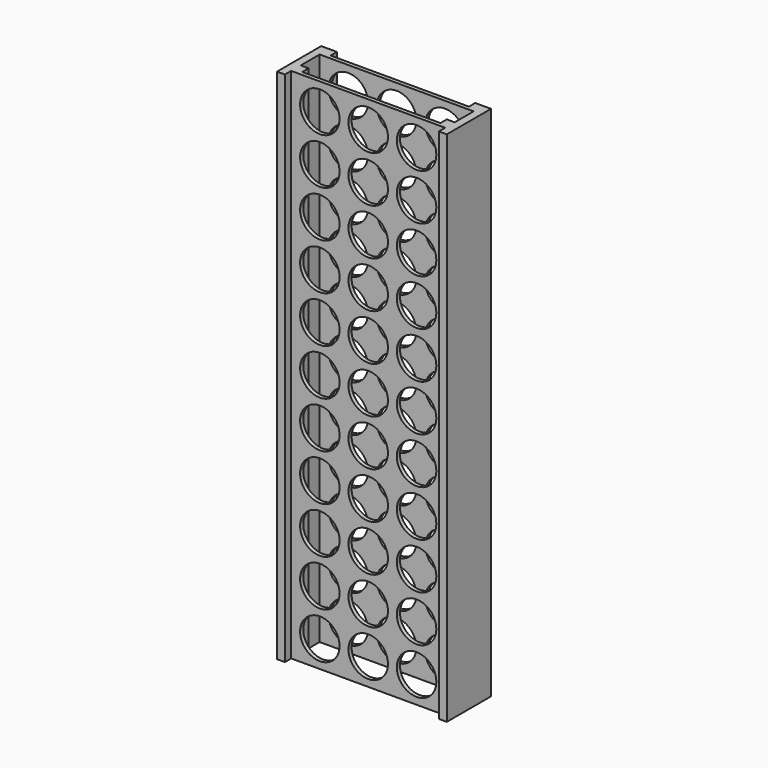
from build123d import *

# Parameters (mm, degrees)
F0_W     = 12.7
F0_H     = 12.7
F1_DEPTH = 831.85
F2_R     = 31.75
F3_DEPTH = 76.201


with BuildPart() as f1:
    # F0 (on Top) → F1 (new body)
    with BuildSketch(Plane.XY):
        Polygon((-123.825, 44.45), (-136.525, 44.45), (-136.525, -44.45), (-123.825, -44.45), (-123.825, -31.75), (-123.825, -25.4), (-123.825, -12.7), (-123.825, 25.4), (-123.825, 31.75), align=None)
        with Locations((-117.475, 38.1)):
            Rectangle(F0_W, F0_H)
        Polygon((-111.125, 31.75), (-123.825, 31.75), (-123.825, 25.4), (123.825, 25.4), (123.825, 31.75), (111.125, 31.75), align=None)
        with Locations((117.475, 38.1)):
            Rectangle(F0_W, F0_H)
        Polygon((123.825, 31.75), (123.825, 25.4), (123.825, -12.7), (123.825, -25.4), (123.825, -31.75), (123.825, -44.45), (136.525, -44.45), (136.525, 44.45), (123.825, 44.45), align=None)
        with Locations((117.475, -19.05)):
            Rectangle(F0_W, F0_H)
        with Locations((-117.475, -19.05)):
            Rectangle(F0_W, F0_H)
        Polygon((-123.825, -25.4), (-123.825, -31.75), (123.825, -31.75), (123.825, -25.4), (111.125, -25.4), (-111.125, -25.4), align=None)
    extrude(amount=F1_DEPTH)

    # F2 (on face) → F3 (cut, through all)
    with BuildSketch(Plane.XZ.offset(31.75)):
        with Locations((-77.7875, 788.9875)):
            Circle(F2_R)
        with Locations((0, 788.9875)):
            Circle(F2_R)
        with Locations((77.7875, 788.9875)):
            Circle(F2_R)
        with Locations((77.7875, 714.375)):
            Circle(F2_R)
        with Locations((0, 714.375)):
            Circle(F2_R)
        with Locations((-77.7875, 714.375)):
            Circle(F2_R)
        with Locations((-77.7875, 639.7625)):
            Circle(F2_R)
        with Locations((0, 639.7625)):
            Circle(F2_R)
        with Locations((77.7875, 639.7625)):
            Circle(F2_R)
        with Locations((77.7875, 565.15)):
            Circle(F2_R)
        with Locations((0, 565.15)):
            Circle(F2_R)
        with Locations((-77.7875, 565.15)):
            Circle(F2_R)
        with Locations((-77.7875, 490.5375)):
            Circle(F2_R)
        with Locations((0, 490.5375)):
            Circle(F2_R)
        with Locations((77.7875, 490.5375)):
            Circle(F2_R)
        with Locations((77.7875, 415.925)):
            Circle(F2_R)
        with Locations((0, 415.925)):
            Circle(F2_R)
        with Locations((-77.7875, 415.925)):
            Circle(F2_R)
        with Locations((0, 341.3125)):
            Circle(F2_R)
        with Locations((77.7875, 341.3125)):
            Circle(F2_R)
        with Locations((77.7875, 266.7)):
            Circle(F2_R)
        with Locations((0, 266.7)):
            Circle(F2_R)
        with Locations((-77.7875, 266.7)):
            Circle(F2_R)
        with Locations((-77.7875, 341.3125)):
            Circle(F2_R)
        with Locations((-77.7875, 192.0875)):
            Circle(F2_R)
        with Locations((0, 192.0875)):
            Circle(F2_R)
        with Locations((77.7875, 192.0875)):
            Circle(F2_R)
        with Locations((77.7875, 117.475)):
            Circle(F2_R)
        with Locations((0, 117.475)):
            Circle(F2_R)
        with Locations((-77.7875, 117.475)):
            Circle(F2_R)
        with Locations((-77.7875, 42.8625)):
            Circle(F2_R)
        with Locations((0, 42.8625)):
            Circle(F2_R)
        with Locations((77.7875, 42.8625)):
            Circle(F2_R)
    extrude(amount=-F3_DEPTH, mode=Mode.SUBTRACT)


solid = f1.part
